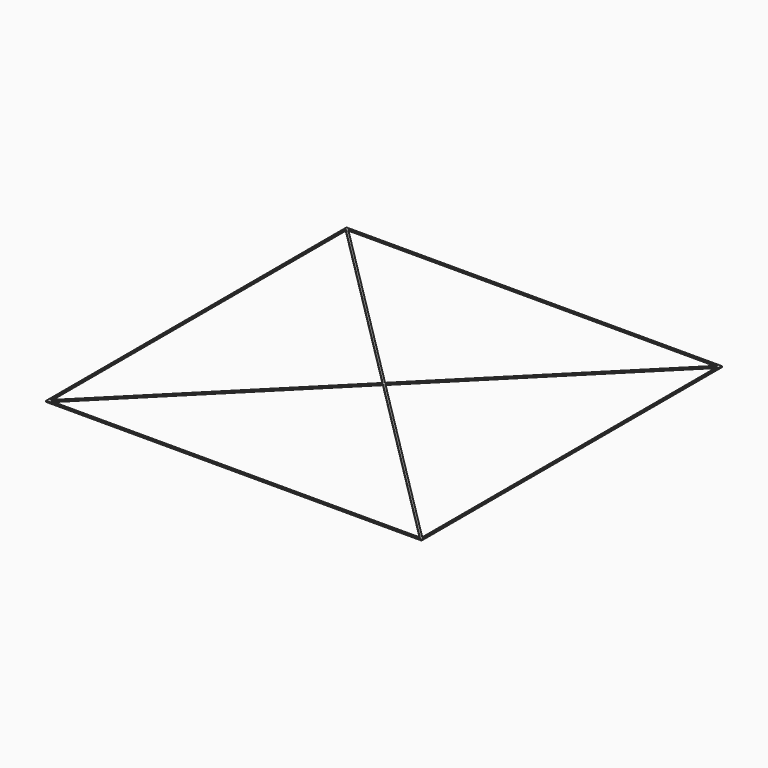
from build123d import *

# Parameters (mm, degrees)
F2_DEPTH = 0.21


with BuildPart() as f2:
    # F1 (on Top) → F2 (new body)
    with BuildSketch(Plane.XY):
        Polygon((-40, 40), (-40, 0), (-39.59, 0), (-39.59, 39.3000862197), (-39.59, 39.59), (-39.3000862197, 39.59), (0, 39.59), (0, 40), align=None)
        Polygon((-40, -40), (40, -40), (40, 40), (0, 40), (0, 39.59), (39.3000862197, 39.59), (39.59, 39.59), (39.59, 39.3000862197), (39.59, -39.3000862197), (39.59, -39.59), (39.3000862197, -39.59), (-39.3000862197, -39.59), (-39.59, -39.59), (-39.59, -39.3000862197), (-39.59, 0), (-40, 0), align=None)
        Polygon((-39.59, 39.59), (-39.59, 39.3000862197), (-0.2899137803, 0), (-0.1449568901, 0.1449568901), align=None)
        Polygon((0, 0.2899137803), (-39.3000862197, 39.59), (-39.59, 39.59), (-0.1449568901, 0.1449568901), align=None)
        Polygon((39.59, 39.59), (39.3000862197, 39.59), (0, 0.2899137803), (0.1449568901, 0.1449568901), align=None)
        Polygon((39.59, 39.3000862197), (39.59, 39.59), (0.1449568901, 0.1449568901), (0.2899137803, 0), align=None)
        Polygon((0.2899137803, 0), (0.1449568901, 0.1449568901), (0, 0), (0.1449568901, -0.1449568901), align=None)
        Polygon((0.1449568901, 0.1449568901), (0, 0.2899137803), (-0.1449568901, 0.1449568901), (0, 0), align=None)
        Polygon((-0.1449568901, 0.1449568901), (-0.2899137803, 0), (-0.1449568901, -0.1449568901), (0, 0), align=None)
        Polygon((0, 0), (-0.1449568901, -0.1449568901), (0, -0.2899137803), (0.1449568901, -0.1449568901), align=None)
        Polygon((0, -0.2899137803), (39.3000862197, -39.59), (39.59, -39.59), (0.1449568901, -0.1449568901), align=None)
        Polygon((39.59, -39.59), (39.59, -39.3000862197), (0.2899137803, 0), (0.1449568901, -0.1449568901), align=None)
        Polygon((-0.1449568901, -0.1449568901), (-39.59, -39.59), (-39.3000862197, -39.59), (0, -0.2899137803), align=None)
        Polygon((-0.2899137803, 0), (-39.59, -39.3000862197), (-39.59, -39.59), (-0.1449568901, -0.1449568901), align=None)
    extrude(amount=F2_DEPTH)


solid = f2.part
